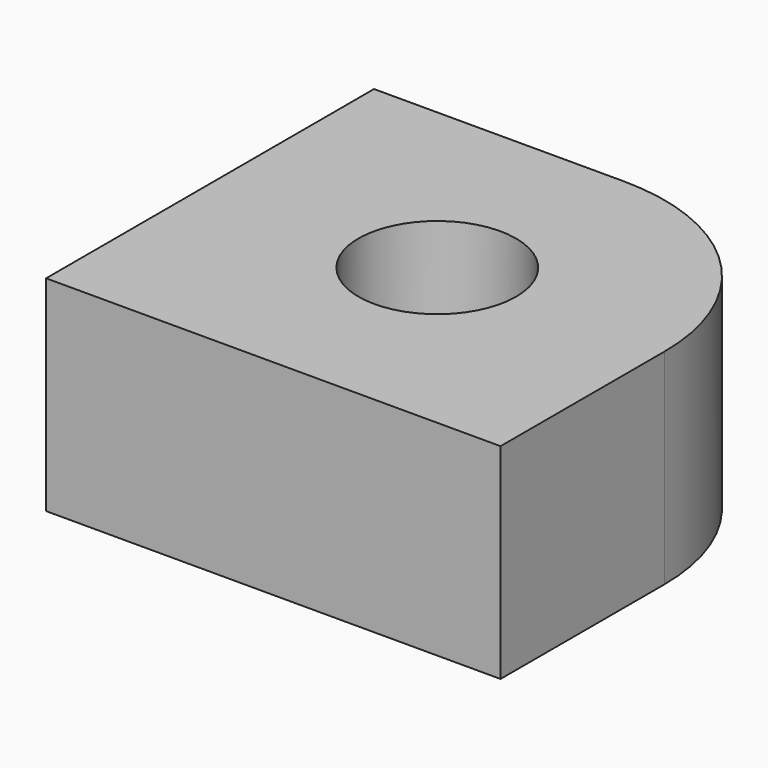
from build123d import *

# Parameters (mm, degrees)
F0_R     = 3.846045
F1_DEPTH = 10


with BuildPart() as f1:
    # F0 (on Top) → F1 (new body)
    with BuildSketch(Plane.XY):
        with BuildLine():
            Line((-37.795966, 13.42895), (-15.622052, 13.42895))
            Line((-15.622052, 13.42895), (-15.622052, 23.42895))
            ThreePointArc((-15.622052, 23.42895), (-18.550985, 30.500018), (-25.622052, 33.42895))
            Line((-25.622052, 33.42895), (-37.795966, 33.42895))
            Line((-37.795966, 33.42895), (-37.795966, 13.42895))
        make_face()
        with Locations((-26.709009, 23.42895)):
            Circle(F0_R, mode=Mode.SUBTRACT)
    extrude(amount=F1_DEPTH)


solid = f1.part
